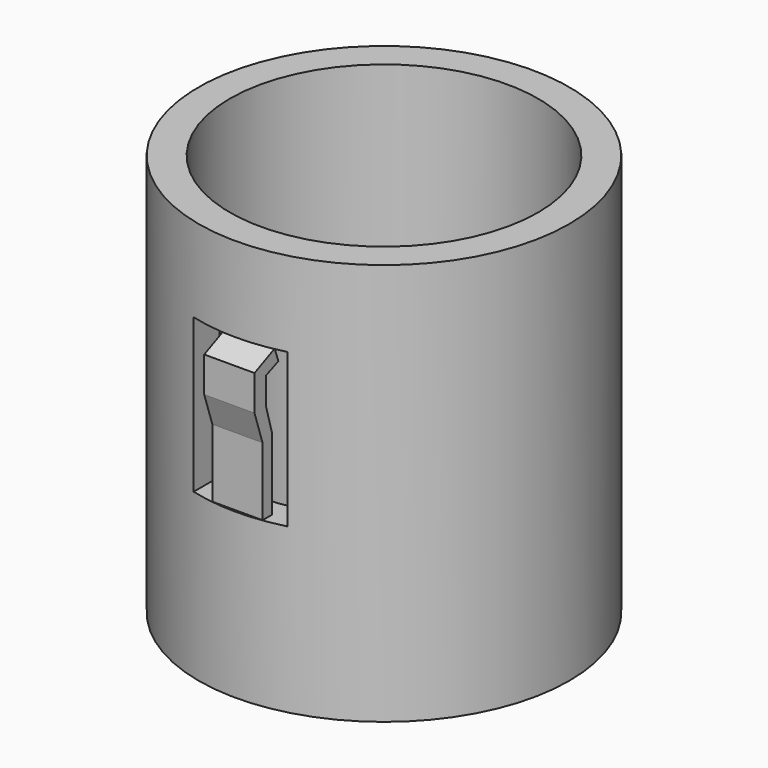
from build123d import *

# Parameters (mm, degrees)
F0_R     = 18.433835
F0_R_2   = 15.332756
F1_DEPTH = 40
F2_W     = 9.342166
F2_H     = 15.280273
F3_DEPTH = 25
F6_DEPTH = 2.5


with BuildPart() as f1:
    # F0 (on Top) → F1 (new body)
    with BuildSketch(Plane.XY):
        Circle(F0_R)
        Circle(F0_R_2, mode=Mode.SUBTRACT)
    extrude(amount=F1_DEPTH)


with BuildPart() as f3:
    # F2 (on Front) → F3 (new body)
    with BuildSketch(Plane.XZ):
        with Locations((0, 23.92951)):
            Rectangle(F2_W, F2_H)
    extrude(amount=F3_DEPTH)


with BuildPart() as f1_1:
    add(f1.part)

    # F4: cut F3
    add(f3.part, mode=Mode.SUBTRACT)

    # F5 (on Right) → F6 (join, symmetric)
    with BuildSketch(Plane.YZ):
        Polygon((-18.222677, 16.054166), (-18.222677, 0), (-17.050333, 0), (-17.050333, 23.467397), (-17.787579, 26.047755), (-17.787579, 28.786093), (-16.260428, 29.418018), (-16.719699, 30.708198), (-19.224662, 29.580966), (-19.224662, 26.074016), (-18.222677, 23.068061), align=None)
    extrude(amount=F6_DEPTH, both=True)


solid = f1_1.part
